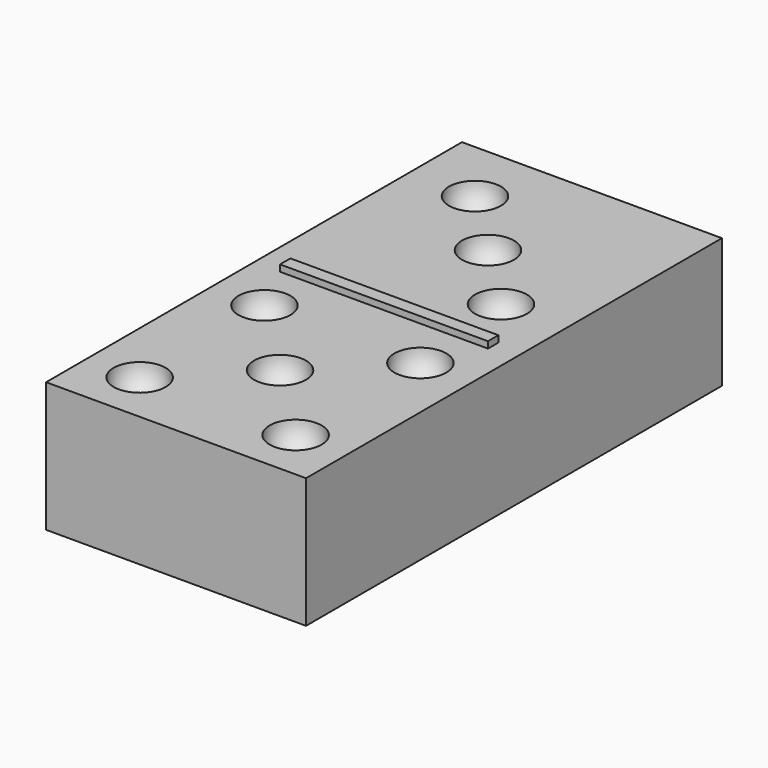
from build123d import *

# Parameters (mm, degrees)
BOX001_W     = 16
BOX001_H     = 1
BOX001_DEPTH = 10
BOX_W        = 20
BOX_H        = 40
BOX_DEPTH    = 10


with BuildPart() as cub001:
    # Box001 → Box001 (new body)
    with BuildSketch(Plane(origin=(2, 20, 0.5), x_dir=(1, 0, 0), z_dir=(0, 0, 1))):
        with Locations((8, 0.5)):
            Rectangle(BOX001_W, BOX001_H)
    extrude(amount=BOX001_DEPTH)


with BuildPart() as esfera006:
    # Sphere006 → Sphere006 (revolve)
    with BuildSketch(Plane(origin=(15, 25, 10), x_dir=(1, 0, 0), z_dir=(0, -1, 0))):
        with BuildLine():
            ThreePointArc((0, -2), (2, 0), (0, 2))
            Line((0, 2), (0, -2))
        make_face()
    revolve(axis=Axis((15, 25, 10), (0, 0, 1)))


with BuildPart() as esfera007:
    # Sphere007 → Sphere007 (revolve)
    with BuildSketch(Plane(origin=(10, 30, 10), x_dir=(1, 0, 0), z_dir=(0, -1, 0))):
        with BuildLine():
            ThreePointArc((0, -2), (2, 0), (0, 2))
            Line((0, 2), (0, -2))
        make_face()
    revolve(axis=Axis((10, 30, 10), (0, 0, 1)))


with BuildPart() as fusion001:
    # Sphere005 → Sphere005 (revolve)
    with BuildSketch(Plane(origin=(5, 35, 10), x_dir=(1, 0, 0), z_dir=(0, -1, 0))):
        with BuildLine():
            ThreePointArc((0, -2), (2, 0), (0, 2))
            Line((0, 2), (0, -2))
        make_face()
    revolve(axis=Axis((5, 35, 10), (0, 0, 1)))

    # Fusion001: union Esfera006, Esfera007
    add(esfera006.part)
    add(esfera007.part)


with BuildPart() as esfera001:
    # Sphere001 → Sphere001 (revolve)
    with BuildSketch(Plane(origin=(16, 4, 10), x_dir=(1, 0, 0), z_dir=(0, -1, 0))):
        with BuildLine():
            ThreePointArc((0, -2), (2, 0), (0, 2))
            Line((0, 2), (0, -2))
        make_face()
    revolve(axis=Axis((16, 4, 10), (0, 0, 1)))


with BuildPart() as esfera002:
    # Sphere002 → Sphere002 (revolve)
    with BuildSketch(Plane(origin=(4, 16, 10), x_dir=(1, 0, 0), z_dir=(0, -1, 0))):
        with BuildLine():
            ThreePointArc((0, -2), (2, 0), (0, 2))
            Line((0, 2), (0, -2))
        make_face()
    revolve(axis=Axis((4, 16, 10), (0, 0, 1)))


with BuildPart() as esfera003:
    # Sphere003 → Sphere003 (revolve)
    with BuildSketch(Plane(origin=(16, 16, 10), x_dir=(1, 0, 0), z_dir=(0, -1, 0))):
        with BuildLine():
            ThreePointArc((0, -2), (2, 0), (0, 2))
            Line((0, 2), (0, -2))
        make_face()
    revolve(axis=Axis((16, 16, 10), (0, 0, 1)))


with BuildPart() as esfera004:
    # Sphere004 → Sphere004 (revolve)
    with BuildSketch(Plane(origin=(10, 10, 10), x_dir=(1, 0, 0), z_dir=(0, -1, 0))):
        with BuildLine():
            ThreePointArc((0, -2), (2, 0), (0, 2))
            Line((0, 2), (0, -2))
        make_face()
    revolve(axis=Axis((10, 10, 10), (0, 0, 1)))


with BuildPart() as fusion:
    # Sphere → Sphere (revolve)
    with BuildSketch(Plane(origin=(4, 4, 10), x_dir=(1, 0, 0), z_dir=(0, -1, 0))):
        with BuildLine():
            ThreePointArc((0, -2), (2, 0), (0, 2))
            Line((0, 2), (0, -2))
        make_face()
    revolve(axis=Axis((4, 4, 10), (0, 0, 1)))

    # Fusion: union Esfera001, Esfera002, Esfera003, Esfera004
    add(esfera001.part)
    add(esfera002.part)
    add(esfera003.part)
    add(esfera004.part)


with BuildPart() as cut001:
    # Box → Box (new body)
    with BuildSketch(Plane.XY):
        with Locations((10, 20)):
            Rectangle(BOX_W, BOX_H)
    extrude(amount=BOX_DEPTH)

    # Cut: cut Fusion
    add(fusion.part, mode=Mode.SUBTRACT)

    # Cut001: cut Fusion001
    add(fusion001.part, mode=Mode.SUBTRACT)


solid = Compound([cub001.part, cut001.part])
